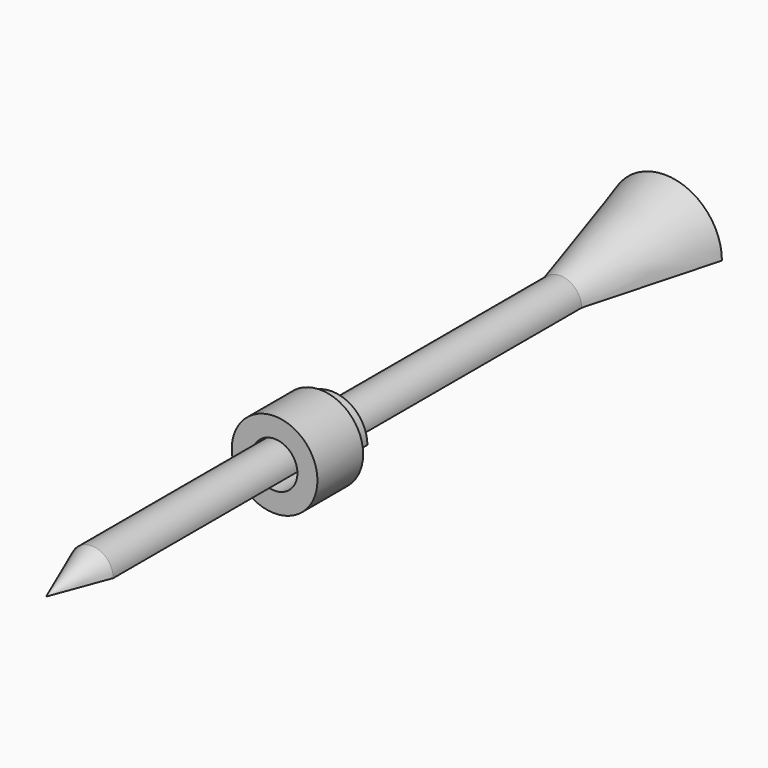
from build123d import *

# Parameters (mm, degrees)
F1_ANGLE = 180
F2_R     = 3.81
F3_DEPTH = 5.08


with BuildPart() as f1:
    # F0 (on Top) → F1 (revolve)
    with BuildSketch(Plane.XY):
        Polygon((-1.905, 5.08), (0, 0), (0, 60.031697), (-2.581929, 63.4916), (-3.709386, 67.619681), (-5.08, 68.774976), (-1.905, 57.15), (-1.905, 31.75), (-3.175, 31.75), (-3.175, 30.48), (-1.905, 30.48), align=None)
    revolve(axis=Axis((0, 30.015849, 0), (0, 1, 0)), revolution_arc=F1_ANGLE)


with BuildPart() as f3:
    # F2 (on face) → F3 (new body)
    with BuildSketch(Plane.XZ.offset(-30.48)):
        Circle(F2_R)
        with BuildLine():
            Line((3.175, 0), (2.032, 0))
            ThreePointArc((2.032, 0), (0, -2.032), (-2.032, 0))
            Line((-2.032, 0), (-3.175, 0))
            ThreePointArc((-3.175, 0), (0, 3.175), (3.175, 0))
        make_face(mode=Mode.SUBTRACT)
        with BuildLine():
            ThreePointArc((-2.032, 0), (0, 2.032), (2.032, 0))
            Line((2.032, 0), (3.175, 0))
            ThreePointArc((3.175, 0), (0, 3.175), (-3.175, 0))
            Line((-3.175, 0), (-2.032, 0))
        make_face()
    extrude(amount=F3_DEPTH)


solid = Compound([f1.part, f3.part])
